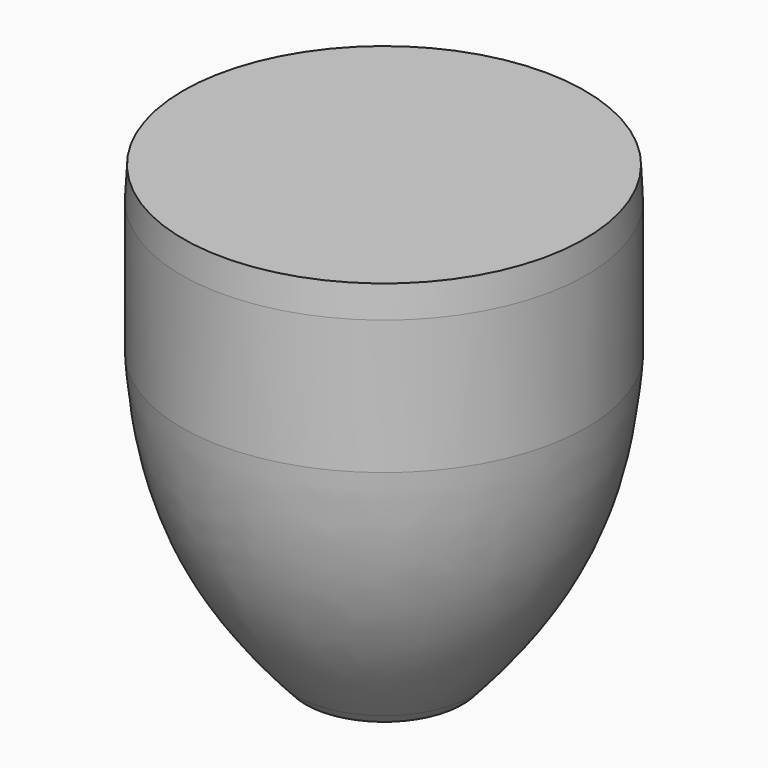
from build123d import *

# Parameters (mm, degrees)
F0_R     = 225
F1_DEPTH = 500
F5_SCALE = 0.75


with BuildPart() as f1:
    # F0 (on Top) → F1 (new body)
    with BuildSketch(Plane.XY):
        Circle(F0_R)
    extrude(amount=F1_DEPTH)

    # F2 (on Front) → F4 (revolve, cut)
    with BuildSketch(Plane.XZ):
        with BuildLine():
            Line((-370.3630566597, 0), (-87.1822908521, 0))
            add(Edge.make_bspline(
                [(-87.1822908521, 0), (-90.6749721594, 3.8222254673), (-94.0881927527, 7.6209101654), (-97.4234330683, 11.3993561694)],
                knots=[0, 0, 0, 0, 13.9758277665, 13.9758277665, 13.9758277665, 13.9758277665], degree=3))
            add(Edge.make_bspline(
                [(-97.4234330683, 11.3993561694), (-220.0127632021, 150.279053206), (-237.2517737021, 261.8165432768), (-222.6538360119, 509.9815130234)],
                knots=[13.9758277665, 13.9758277665, 13.9758277665, 13.9758277665, 527.6681563005, 527.6681563005, 527.6681563005, 527.6681563005], degree=3))
            Line((-222.6538360119, 509.9815130234), (-370.3630566597, 526.1934995651))
            Line((-370.3630566597, 526.1934995651), (-370.3630566597, 0))
        make_face()
        with BuildLine():
            add(Edge.make_bspline(
                [(-87.1822908521, 0), (-90.6749721594, 3.8222254673), (-94.0881927527, 7.6209101654), (-97.4234330683, 11.3993561694)],
                knots=[0, 0, 0, 0, 13.9758277665, 13.9758277665, 13.9758277665, 13.9758277665], degree=3))
            Line((-87.1822908521, 0), (-97.4234330683, 11.3993561694))
        make_face()
    revolve(axis=Axis((0, 0, 313.555), (0, 0, 1)), mode=Mode.SUBTRACT)


with BuildPart() as f1_1:
    # F5: moved
    add(f1.part.scale(F5_SCALE))


solid = f1_1.part
